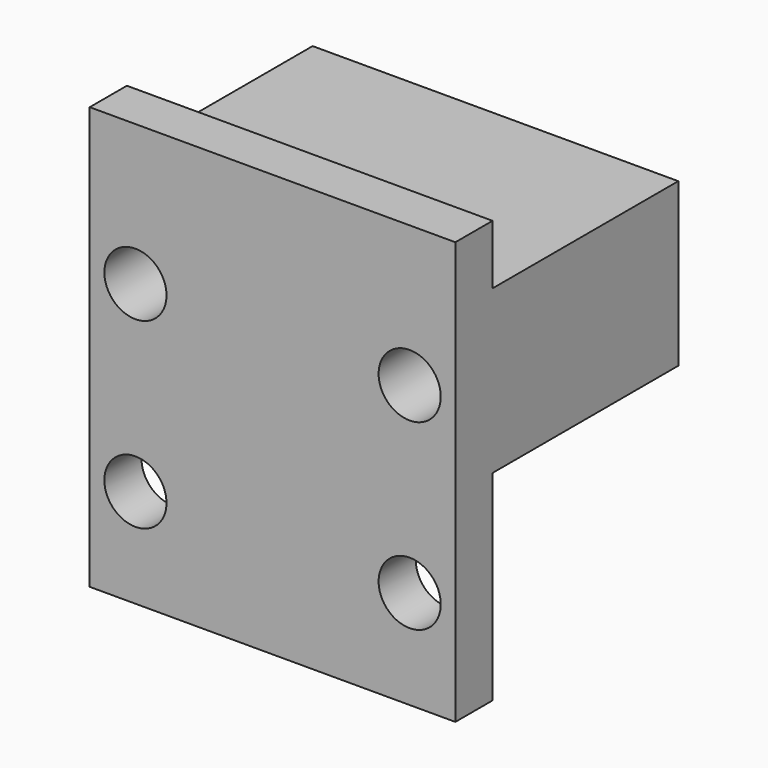
from build123d import *

# Parameters (mm, degrees)
SKETCH036_W  = 19.99996
SKETCH036_H  = 23.09876
SKETCH036_R  = 1.7
PAD003_DEPTH = 2.54
SKETCH051_W  = 19.99996
SKETCH051_H  = 8.89
SKETCH051_R  = 1.7
PAD011_DEPTH = 12.7
SKETCH050_R  = 0.9
PAD012_DEPTH = 2.975


with BuildPart() as part:
    # Sketch036 → Pad003 (new body)
    with BuildSketch(Plane(origin=(0, 10, -45.999574), x_dir=(-1, 0, 0), z_dir=(0, 1, 0))):
        with Locations((0, 1.15062)):
            Rectangle(SKETCH036_W, SKETCH036_H)
        with Locations((-7.5, 5.00124)):
            Circle(SKETCH036_R, mode=Mode.SUBTRACT)
        with Locations((-7.5, -4.99876)):
            Circle(SKETCH036_R, mode=Mode.SUBTRACT)
        with Locations((7.5, -4.99876)):
            Circle(SKETCH036_R, mode=Mode.SUBTRACT)
        with Locations((7.5, 5.00124)):
            Circle(SKETCH036_R, mode=Mode.SUBTRACT)
    extrude(amount=PAD003_DEPTH)

    # Sketch051 (on Face10 of Pad003) → Pad011 (join)
    with BuildSketch(Plane(origin=(0, 12.54, -45.999574), x_dir=(-1, 0, 0), z_dir=(0, 1, 0))):
        with Locations((0, 5.00124)):
            Rectangle(SKETCH051_W, SKETCH051_H)
        with Locations((-7.5, 5.00124)):
            Circle(SKETCH051_R, mode=Mode.SUBTRACT)
        with Locations((7.5, 5.00124)):
            Circle(SKETCH051_R, mode=Mode.SUBTRACT)
    extrude(amount=PAD011_DEPTH)

    # Sketch050 → Pad012 (join)
    with BuildSketch(Plane(origin=(0, 10, -56.398334), x_dir=(-1, 0, 0), z_dir=(0, 0, -1))):
        with BuildLine():
            Line((-3.175, 2.54), (-3.175, 0))
            Line((-3.175, 0), (3.175, 0))
            Line((3.175, 0), (3.175, 2.54))
            Line((3.175, 2.54), (1.90374, 6.488023))
            ThreePointArc((1.90374, 6.488023), (0, 7.87502), (-1.90374, 6.488023))
            Line((-1.90374, 6.488023), (-3.175, 2.54))
        make_face()
        with Locations((0, 5.87502)):
            Circle(SKETCH050_R, mode=Mode.SUBTRACT)
    extrude(amount=-PAD012_DEPTH)


solid = part.part
